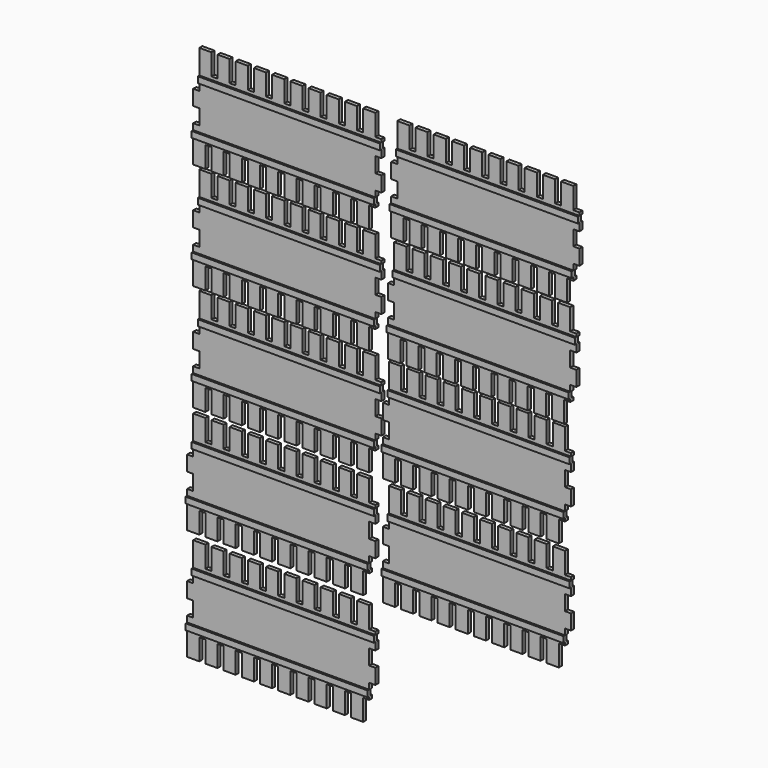
from build123d import *

# Parameters (mm, degrees)
F1_DEPTH = 1.5875
F0_W     = 152.4
F0_H     = 5.08
F2_DEPTH = 3.175


with BuildPart() as f1:
    # F0 (on Front) → F1 (new body, symmetric)
    with BuildSketch(Plane.XZ):
        Polygon((111.76, -26.980898), (-40.64, -26.980898), (-40.64, -47.300898), (-30.48, -47.300898), (-30.48, -29.520898), (-25.4, -29.520898), (-25.4, -47.300898), (-15.24, -47.300898), (-15.24, -29.520898), (-10.16, -29.520898), (-10.16, -47.300898), (0, -47.300898), (0, -29.520898), (5.08, -29.520898), (5.08, -47.300898), (15.24, -47.300898), (15.24, -29.520898), (20.32, -29.520898), (20.32, -47.300898), (30.48, -47.300898), (30.48, -29.520898), (35.56, -29.520898), (35.56, -47.300898), (45.72, -47.300898), (45.72, -29.520898), (50.8, -29.520898), (50.8, -47.300898), (60.96, -47.300898), (60.96, -29.520898), (66.04, -29.520898), (66.04, -47.300898), (76.2, -47.300898), (76.2, -29.520898), (81.28, -29.520898), (81.28, -47.300898), (91.44, -47.300898), (91.44, -29.520898), (96.52, -29.520898), (96.52, -47.300898), (106.68, -47.300898), (106.68, -29.520898), (111.76, -29.520898), align=None)
        Polygon((-40.64, -16.820898), (-40.64, -21.900898), (111.76, -21.900898), (111.76, -16.820898), (116.84, -16.820898), (116.84, -4.120898), (111.76, -4.120898), (111.76, 8.579102), (116.84, 8.579102), (116.84, 14.980999), (-35.56, 14.980999), (-35.56, 8.579102), (-40.64, 8.579102), (-40.64, -4.120898), (-35.565068, -4.120898), (-35.565068, -16.820898), align=None)
        Polygon((-40.64, -16.820898), (-40.64, -21.900898), (111.76, -21.900898), (111.76, -16.820898), (116.84, -16.820898), (116.84, -4.120898), (111.76, -4.120898), (111.76, 8.579102), (116.84, 8.579102), (116.84, 14.980999), (-35.56, 14.980999), (-35.56, 8.579102), (-40.64, 8.579102), (-40.64, -4.120898), (-35.565068, -4.120898), (-35.565068, -16.820898), align=None)
        Polygon((-35.56, 40.380999), (-35.56, 20.060999), (116.84, 20.060999), (116.84, 22.600999), (111.76, 22.600999), (111.76, 40.380999), (101.6, 40.380999), (101.6, 22.600999), (96.52, 22.600999), (96.52, 40.380999), (86.36, 40.380999), (86.36, 22.600999), (81.28, 22.600999), (81.28, 40.380999), (71.12, 40.380999), (71.12, 22.600999), (66.04, 22.600999), (66.04, 40.380999), (55.88, 40.380999), (55.88, 22.600999), (50.8, 22.600999), (50.8, 40.380999), (40.64, 40.380999), (40.64, 22.600999), (35.56, 22.600999), (35.56, 40.380999), (25.4, 40.380999), (25.4, 22.600999), (20.32, 22.600999), (20.32, 40.380999), (10.16, 40.380999), (10.16, 22.600999), (5.08, 22.600999), (5.08, 40.380999), (-5.08, 40.380999), (-5.08, 22.600999), (-10.16, 22.600999), (-10.16, 40.380999), (-20.32, 40.380999), (-20.32, 22.600999), (-25.4, 22.600999), (-25.4, 40.380999), align=None)
    extrude(amount=F1_DEPTH, both=True)

    # F0 (on Front) → F2 (join)
    with BuildSketch(Plane.XZ):
        with Locations((40.64, 17.520999)):
            Rectangle(F0_W, F0_H)
        with Locations((35.56, -24.440898)):
            Rectangle(F0_W, F0_H)
    extrude(amount=F2_DEPTH)


with BuildPart() as f3_1:
    # F3: copy of F1
    add(f1.part.moved(Location((2.54, 0, 90.17))))


with BuildPart() as f4_1:
    # F4: copy of F1
    add(f1.part.moved(Location((-4.445, 0, -89.535))))


with BuildPart() as f5_1:
    # F5: copy of F4_1
    add(f4_1.part.moved(Location((-158.75, 0, 0.635))))


with BuildPart() as f6_1:
    # F6: copy of F5_1
    add(f5_1.part.moved(Location((0, 0, 89.535))))


with BuildPart() as f7_1:
    # F7: copy of F6_1
    add(f6_1.part.moved(Location((0, 0, 89.535))))


with BuildPart() as f8_1:
    # F8: copy of F4_1
    add(f4_1.part.moved(Location((0, 0, -91.44))))


with BuildPart() as f9_1:
    # F9: copy of F8_1
    add(f8_1.part.moved(Location((-163.83, 0, 0))))


with BuildPart() as f10_1:
    # F10: copy of F9_1
    add(f9_1.part.moved(Location((0, 0, -93.345))))


solid = Compound([f1.part, f3_1.part, f4_1.part, f5_1.part, f6_1.part, f7_1.part, f8_1.part, f9_1.part, f10_1.part])
